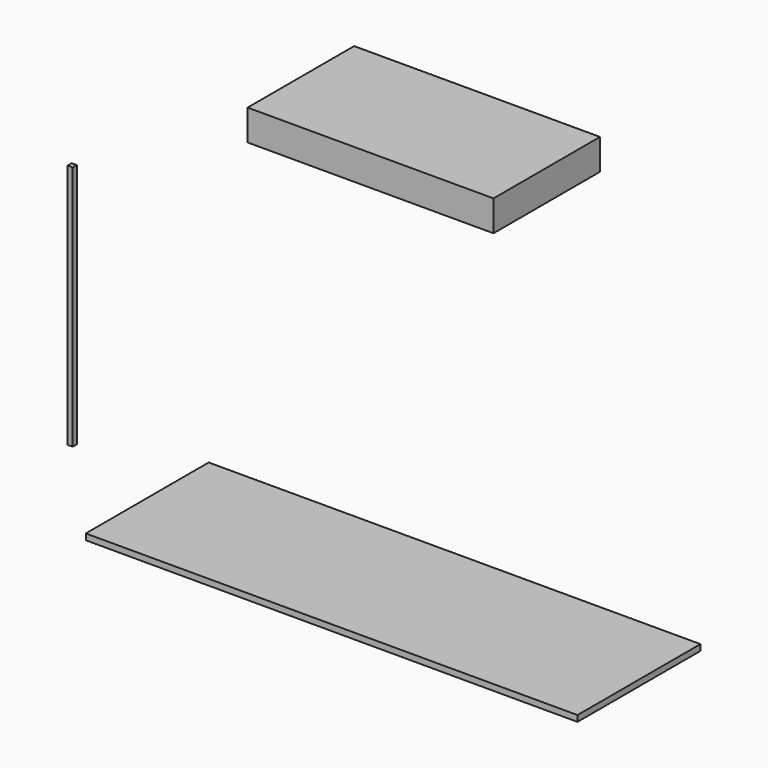
from build123d import *

# Parameters (mm, degrees)
F0_W     = 2438.4
F0_H     = 762
F1_DEPTH = 29.972
F2_W     = 153.752804
F2_H     = 446.217656
F3_DEPTH = 25.4
F5_W     = 25.4
F5_H     = 1219.2
F6_DEPTH = 25.4
F7_W     = 1219.2
F7_H     = 152.4
F8_DEPTH = 660.4


with BuildPart() as f1:
    # F0 (on Top) → F1 (new body)
    with BuildSketch(Plane.XY):
        with Locations((4.013447, 7.308213)):
            Rectangle(F0_W, F0_H)
    extrude(amount=F1_DEPTH)


with BuildPart() as f3:
    # F2 (on Front) → F3 (new body)
    with BuildSketch(Plane.XZ):
        with Locations((-1692.282081, 223.108828)):
            Rectangle(F2_W, F2_H)
    extrude(amount=F3_DEPTH)


with BuildPart() as f6:
    # F5 (on Front) → F6 (new body)
    with BuildSketch(Plane.XZ):
        with Locations((-1571.289301, 764.75303)):
            Rectangle(F5_W, F5_H)
    extrude(amount=F6_DEPTH)


with BuildPart() as f8:
    # F7 (on Front) → F8 (new body)
    with BuildSketch(Plane.XZ):
        with Locations((426.364049, 2264.956028)):
            Rectangle(F7_W, F7_H)
    extrude(amount=F8_DEPTH)


solid = Compound([f1.part, f6.part, f8.part])
